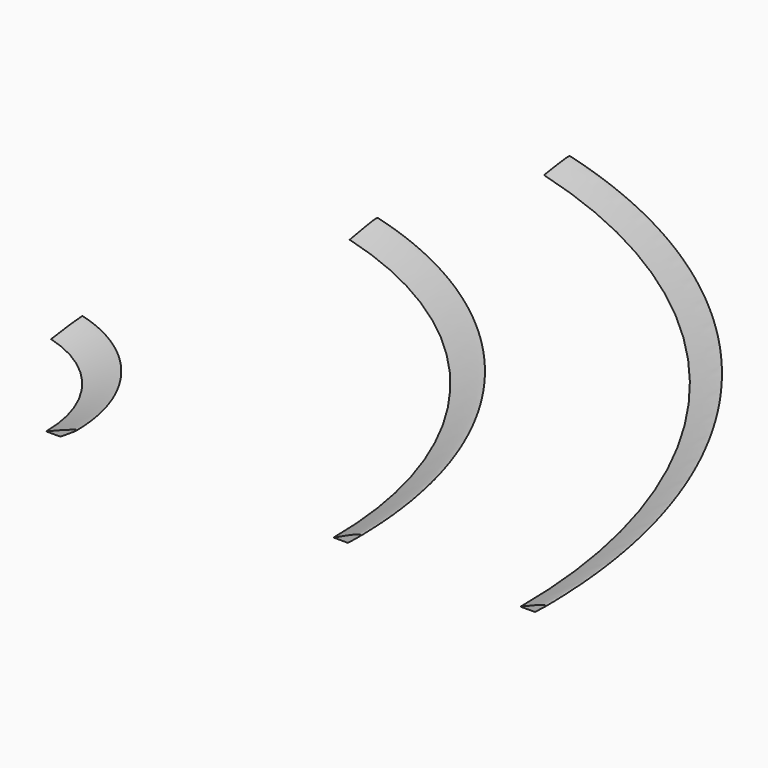
from build123d import *


with BuildPart() as f2:
    # F2: sweep along a path in F0
    with BuildLine(Plane.XY) as f2_path:
        ThreePointArc((1092.2, 0), (869.6809567991, 660.7237496723), (292.7935297912, 1052.2227848286))
    # F1 (on Front) → F2 (sweep)
    with BuildSketch(Plane.XZ):
        with BuildLine():
            Line((228.1166613102, 0), (253.6457777023, 0))
            add(Edge.make_bspline(
                [(253.6457777023, 0), (268.1641733502, 9.0068520292), (301.4247008326, 29.6408571021), (254.5374051588, 10.6827777424), (228.1166613102, 0)],
                knots=[0, 0, 0, 0, 0.4365052736, 1, 1, 1, 1], degree=3))
        make_face()
    sweep(path=f2_path.line)


with BuildPart() as f4:
    # F4: sweep along a path in F0
    with BuildLine(Plane.XY) as f4_path:
        ThreePointArc((1092.2, 0), (869.6809567991, 660.7237496723), (292.7935297912, 1052.2227848286))
    # F3 (on Front) → F4 (sweep)
    with BuildSketch(Plane.XZ):
        with BuildLine():
            Line((736.5782856941, 0), (761.8950605392, 0))
            add(Edge.make_bspline(
                [(736.5782856941, 0), (759.7521517192, 10.8595515777), (800.5298506456, 29.9684704015), (773.5446416296, 9.0364183457), (761.8950605392, 0)],
                knots=[0, 0, 0, 0, 0.5682975409, 1, 1, 1, 1], degree=3))
        make_face()
    sweep(path=f4_path.line)


with BuildPart() as f6:
    # F6: sweep along a path in F0
    with BuildLine(Plane.XY) as f6_path:
        ThreePointArc((1092.2, 0), (869.6809567991, 660.7237496723), (292.7935297912, 1052.2227848286))
    # F5 (on Front) → F6 (sweep)
    with BuildSketch(Plane.XZ):
        with BuildLine():
            Line((1067.4242973328, 0), (1093.0740833282, 0))
            add(Edge.make_bspline(
                [(1067.4242973328, 0), (1088.9040672541, 9.0826533499), (1125.9036140258, 24.7277956704), (1102.7754076293, 7.3072127426), (1093.0740833282, 0)],
                knots=[0, 0, 0, 0, 0.5805414335, 1, 1, 1, 1], degree=3))
        make_face()
    sweep(path=f6_path.line)


solid = Compound([f2.part, f4.part, f6.part])
